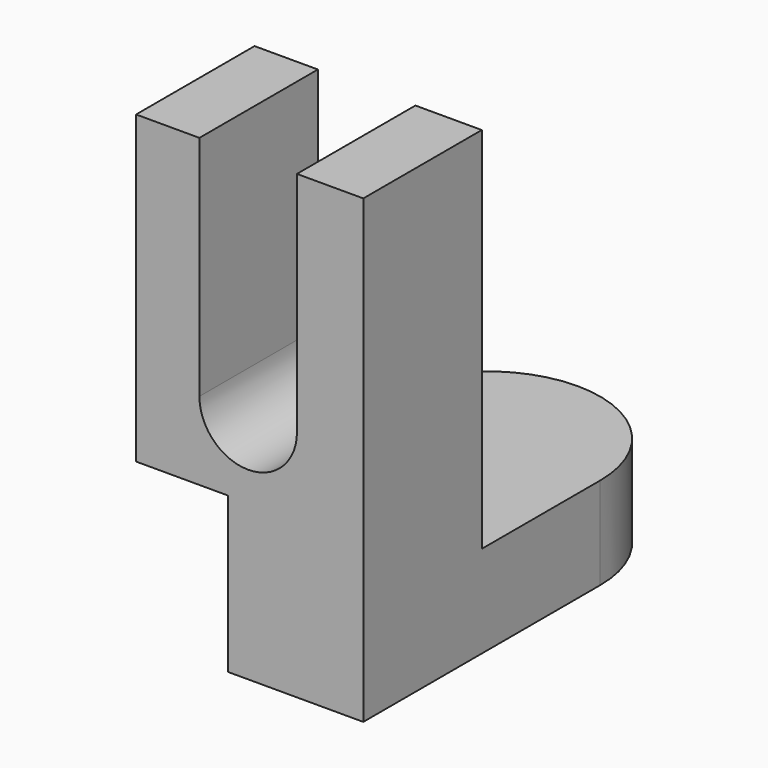
from build123d import *

# Parameters (mm, degrees)
F1_DEPTH = 12.7
F2_W     = 31.30851
F2_H     = 20.404518
F3_DEPTH = 50.8
F5_DEPTH = 25.4
F7_DEPTH = 12.7


with BuildPart() as f1:
    # F0 (on Top) → F1 (new body)
    with BuildSketch(Plane.XY):
        with BuildLine():
            Line((-15.654255, -20.404518), (15.654255, -20.404518))
            Line((15.654255, -20.404518), (15.654255, 20.404518))
            ThreePointArc((15.654255, 20.404518), (0, 36.058772), (-15.654255, 20.404518))
            Line((-15.654255, 20.404518), (-15.654255, -20.404518))
        make_face()
    extrude(amount=F1_DEPTH)

    # F2 (on face) → F3 (join)
    with BuildSketch(Plane.XY.offset(12.7)):
        with Locations((0, -10.202259)):
            Rectangle(F2_W, F2_H)
    extrude(amount=F3_DEPTH)

    # F4 (on face) → F5 (cut)
    with BuildSketch(Plane(origin=(0, 0, 0), x_dir=(-1, 0, 0), z_dir=(0, 1, 0))):
        with BuildLine():
            Line((6.924376, 63.5), (-6.511585, 63.5))
            Line((-6.511585, 63.5), (-6.511585, 32.147441))
            ThreePointArc((-6.511585, 32.147441), (0.206395, 25.42946), (6.924376, 32.147441))
            Line((6.924376, 32.147441), (6.924376, 63.5))
        make_face()
    extrude(amount=-F5_DEPTH, mode=Mode.SUBTRACT)

    # F6 (on face) → F7 (cut)
    with BuildSketch(Plane(origin=(-15.654255, 0, 0), x_dir=(0, -1, 0), z_dir=(-1, 0, 0))):
        Polygon((0, 12.7), (-10.202259, 12.7), (-10.202259, 0), (20.404518, 0), (20.404518, 12.7), (20.404518, 21.397056), (0, 21.397056), align=None)
    extrude(amount=-F7_DEPTH, mode=Mode.SUBTRACT)


solid = f1.part
